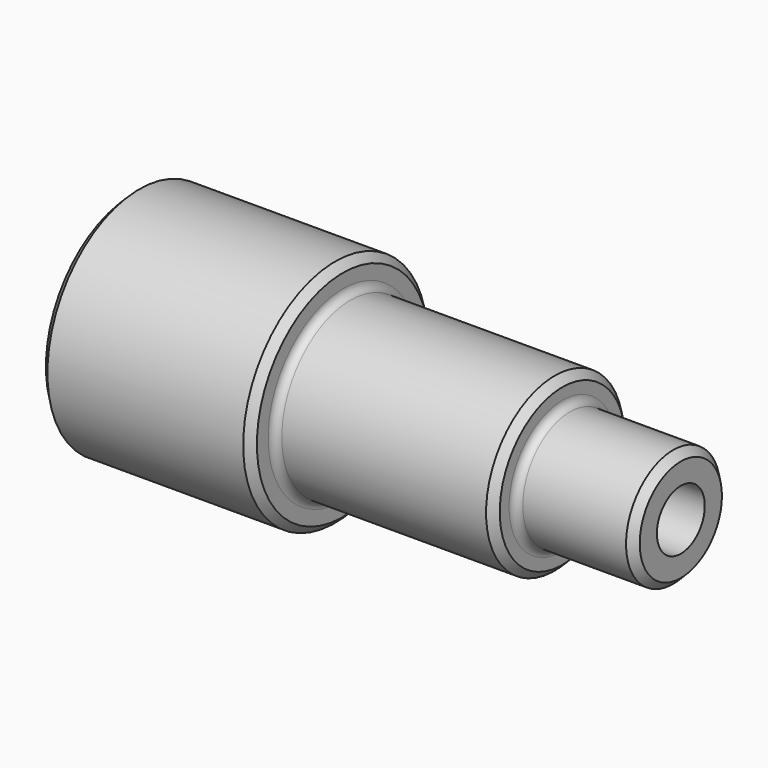
from build123d import *

# Parameters (mm, degrees)
F2_R     = 12.5
F3_DEPTH = 253.15408
F4_SIZE  = 3.175
F5_R     = 3.175


with BuildPart() as f1:
    # F0 (on Top) → F1 (revolve)
    with BuildSketch(Plane.XY):
        Polygon((-118.936889, 48.041679), (-118.936889, 0), (110.082783, 0), (110.082783, 24.608025), (60.65549, 24.608025), (60.65549, 35.83255), (-30.912993, 35.83255), (-30.912993, 48.041679), align=None)
    revolve(axis=Axis((-4.427053, 0, 0), (1, 0, 0)))

    # F2 (on face) → F3 (cut)
    with BuildSketch(Plane(origin=(-118.936889, 0, 0), x_dir=(0, -1, 0), z_dir=(-1, 0, 0))):
        Circle(F2_R)
    extrude(amount=-F3_DEPTH, mode=Mode.SUBTRACT)

    # F4
    f4_edges = [f1.edges().sort_by_distance(p)[0] for p in [
        (-118.936889, -48.041679, 0),
        (-30.912993, -48.041679, 0),
        (60.65549, -35.83255, 0),
        (110.082783, -24.608025, 0),
    ]]
    chamfer(f4_edges, length=F4_SIZE)

    # F5
    f5_edges = [f1.edges().sort_by_distance(p)[0] for p in [
        (60.65549, -24.608025, 0),
        (-30.912993, -35.83255, 0),
    ]]
    fillet(f5_edges, radius=F5_R)


solid = f1.part
